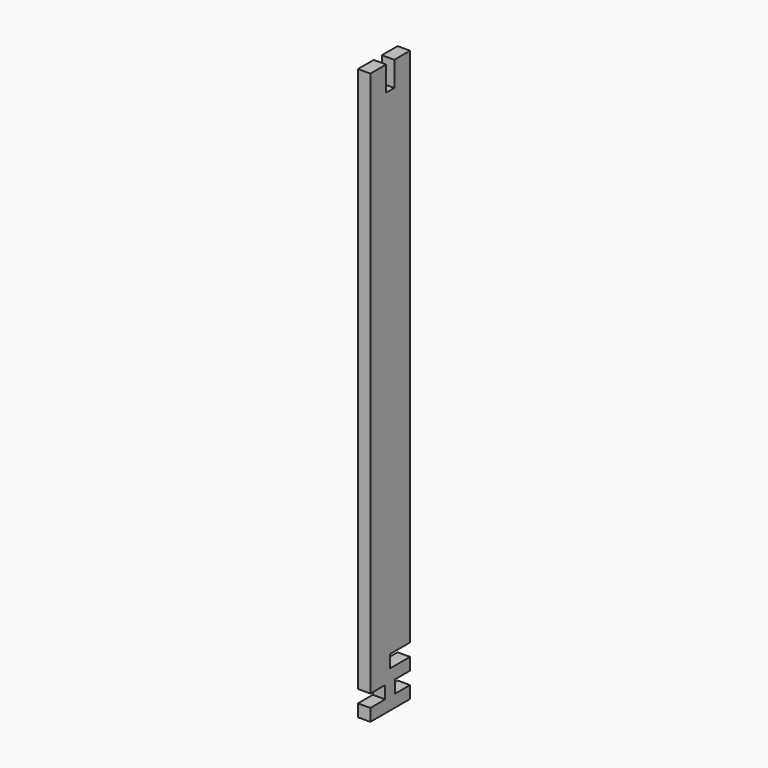
from build123d import *

# Parameters (mm, degrees)
PAD_DEPTH = 2.5


with BuildPart() as part:
    # Sketch → Pad (new body, symmetric)
    with BuildSketch(Plane.YZ):
        Polygon((10, 0), (10, 4.95), (2.5, 4.95), (2.5, 10.05), (10, 10.05), (10, 14.95), (0, 14.95), (0, 20.05), (10, 20.05), (10, 230), (2.05, 230), (2.05, 220), (-2.05, 220), (-2.05, 230), (-10, 230), (-10, 10.05), (-2.5, 10.05), (-2.5, 4.95), (-10, 4.95), (-10, 0), align=None)
    extrude(amount=PAD_DEPTH, both=True)


solid = part.part
